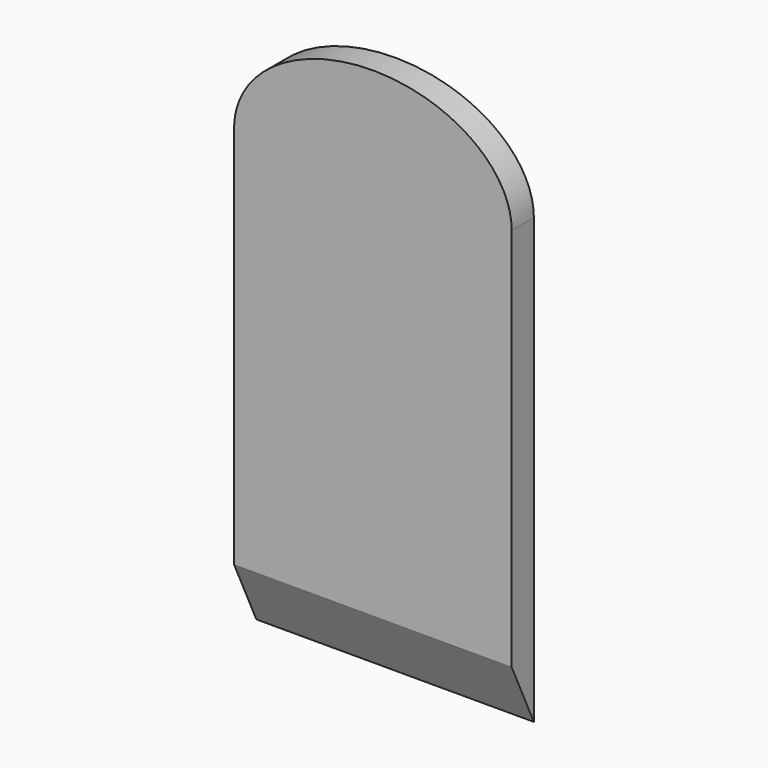
from build123d import *

# Parameters (mm, degrees)
F1_DEPTH = 2.5
F3_DEPTH = 25


with BuildPart() as f1:
    # F0 (on Front) → F1 (new body)
    with BuildSketch(Plane.XZ):
        with BuildLine():
            Line((-12.5, 40), (-12.5, 0))
            Line((-12.5, 0), (12.5, 0))
            Line((12.5, 0), (12.5, 40))
            add(Edge.make_bspline(
                [(12.5, 40), (12.5, 48.6242408661), (0, 48.6242408661), (-12.5, 48.6242408661), (-12.5, 40)],
                knots=[0, 0, 0, 1.5707963268, 1.5707963268, 3.1415926536, 3.1415926536, 3.1415926536], degree=2, weights=[1, 0.7071067812, 1, 0.7071067812, 1]))
        make_face()
    extrude(amount=F1_DEPTH)

    # F2 (on face) → F3 (cut)
    with BuildSketch(Plane.YZ.offset(12.5)):
        Polygon((-2.5, 0), (0, 0), (-2.5, 5.3612673013), align=None)
    extrude(amount=-F3_DEPTH, mode=Mode.SUBTRACT)


solid = f1.part
